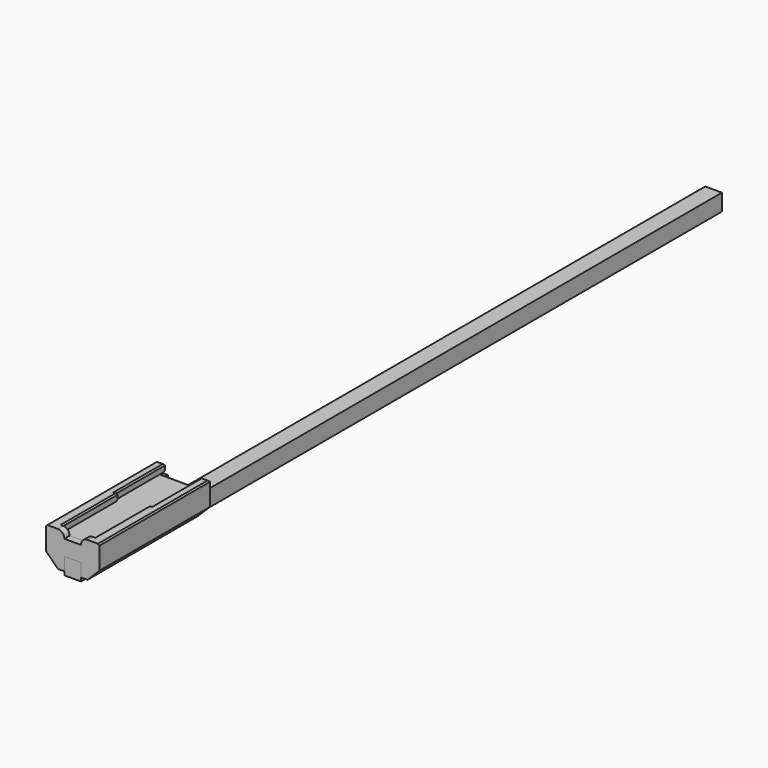
from build123d import *

# Parameters (mm, degrees)
BOX_W             = 12.7
BOX_H             = 609.6
BOX_DEPTH         = 12.7
BOX001_W          = 30.48
BOX001_H          = 95.25
BOX001_DEPTH      = 1.6
CYLINDER002_R     = 7
CYLINDER002_DEPTH = 3
CYLINDER003_R     = 7
CYLINDER003_DEPTH = 3
CYLINDER001_R     = 2
CYLINDER001_DEPTH = 10
CYLINDER_R        = 2
CYLINDER_DEPTH    = 10
SKETCH_W          = 40.48
SKETCH_H          = 105.25
EXTRUDE_DEPTH     = 5
SKETCH001_W       = 13.89
SKETCH001_H       = 105.25
EXTRUDE001_DEPTH  = 10
CHAMFER_SIZE      = 9
EXTRUDE002_DEPTH  = 5
EXTRUDE003_DEPTH  = 1.8
EXTRUDE004_DEPTH  = 5
CHAMFER001_SIZE   = 1
FILLET_R          = 4.9
CHAMFER002_SIZE   = 1
CHAMFER003_SIZE   = 1


with BuildPart() as dowel:
    # Box → Box (new body)
    with BuildSketch(Plane.XY):
        with Locations((6.35, 304.8)):
            Rectangle(BOX_W, BOX_H)
    extrude(amount=BOX_DEPTH)


with BuildPart() as pcb:
    # Box001 → Box001 (new body)
    with BuildSketch(Plane(origin=(-8.89, 5, 22.72), x_dir=(1, 0, 0), z_dir=(0, 0, 1))):
        with Locations((15.24, 47.625)):
            Rectangle(BOX001_W, BOX001_H)
    extrude(amount=BOX001_DEPTH)


with BuildPart() as countersink1:
    # Cylinder002 → Cylinder002 (new body)
    with BuildSketch(Plane(origin=(6.35, 30, 15), x_dir=(1, 0, 0), z_dir=(0, 0, 1))):
        Circle(CYLINDER002_R)
    extrude(amount=CYLINDER002_DEPTH)


with BuildPart() as countersink002:
    # Cylinder003 → Cylinder003 (new body)
    with BuildSketch(Plane(origin=(6.35, 70, 15), x_dir=(1, 0, 0), z_dir=(0, 0, 1))):
        Circle(CYLINDER003_R)
    extrude(amount=CYLINDER003_DEPTH)


with BuildPart() as screwhole2:
    # Cylinder001 → Cylinder001 (new body)
    with BuildSketch(Plane(origin=(6.35, 70, 10), x_dir=(1, 0, 0), z_dir=(0, 0, 1))):
        Circle(CYLINDER001_R)
    extrude(amount=CYLINDER001_DEPTH)


with BuildPart() as screwhole1:
    # Cylinder → Cylinder (new body)
    with BuildSketch(Plane(origin=(6.35, 30, 10), x_dir=(1, 0, 0), z_dir=(0, 0, 1))):
        Circle(CYLINDER_R)
    extrude(amount=CYLINDER_DEPTH)


with BuildPart() as baseplate:
    # Sketch → Extrude (new body)
    with BuildSketch(Plane.XY):
        with Locations((0, 52.625)):
            Rectangle(SKETCH_W, SKETCH_H)
    extrude(amount=EXTRUDE_DEPTH)


with BuildPart() as baseplate_1:
    # Extrude placement: moved
    add(baseplate.part.moved(Location((6.35, 0, 12.7))))

    # Cut: cut screwhole1
    add(screwhole1.part, mode=Mode.SUBTRACT)

    # Cut001: cut screwhole2
    add(screwhole2.part, mode=Mode.SUBTRACT)

    # Cut002: cut countersink002
    add(countersink002.part, mode=Mode.SUBTRACT)

    # Cut003: cut countersink1
    add(countersink1.part, mode=Mode.SUBTRACT)


with BuildPart() as supportarms:
    # Sketch001 (on Extrude) → Extrude001 (new body)
    with BuildSketch(Plane(origin=(6.35, 0, 12.7), x_dir=(1, 0, 0), z_dir=(0, 0, 1))):
        with Locations((-13.295, 52.625)):
            Rectangle(SKETCH001_W, SKETCH001_H)
        with Locations((13.295, 52.625)):
            Rectangle(SKETCH001_W, SKETCH001_H)
    extrude(amount=-EXTRUDE001_DEPTH)

    # Chamfer
    chamfer_edges = [supportarms.edges().sort_by_distance(p)[0] for p in [
        (26.59, 52.625, 2.7),
        (-13.89, 52.625, 2.7),
    ]]
    chamfer(chamfer_edges, length=CHAMFER_SIZE)


with BuildPart() as obj1:
    # Sketch002 (on Face5 of Cut003) → Extrude002 (new body)
    with BuildSketch(Plane.XY.offset(17.7)):
        Polygon((-13.89, 0), (-8.89, 0), (21.59, 0), (26.59, 0), (26.59, 105.25), (18.09, 105.25), (18.09, 7), (-5.39, 7), (-5.39, 105.25), (-13.89, 105.25), align=None)
    extrude(amount=EXTRUDE002_DEPTH)


with BuildPart() as obj2:
    # Sketch003 (on Face12 of Extrude002) → Extrude003 (new body)
    with BuildSketch(Plane.XY.offset(22.7)):
        Polygon((-13.89, 0), (26.59, 0), (26.59, 5), (26.59, 105.25), (21.59, 105.25), (21.59, 5), (-8.89, 5), (-8.89, 105.25), (-13.89, 105.25), (-13.89, 5), align=None)
    extrude(amount=EXTRUDE003_DEPTH)


with BuildPart() as fusion001:
    # Sketch004 (on Face12 of Extrude003) → Extrude004 (new body)
    with BuildSketch(Plane.XY.offset(24.5)):
        Polygon((-7.49, 105.25), (-13.89, 105.25), (-13.89, 0), (0, 0), (0, 5), (-5.89, 5), (-5.89, 58), (-7.49, 58), align=None)
        Polygon((26.59, 0), (26.59, 105.25), (20.19, 105.25), (20.19, 58), (18.59, 58), (18.59, 5), (12.7, 5), (12.7, 0), (18.59, 0), align=None)
    extrude(amount=EXTRUDE004_DEPTH)

    # Fusion: union obj1, obj2
    add(obj1.part)
    add(obj2.part)

    # Chamfer001
    chamfer001_edges = [fusion001.edges().sort_by_distance(p)[0] for p in [
        (-10.69, 105.25, 29.5),
        (-13.89, 52.625, 29.5),
        (-7.49, 81.625, 29.5),
        (-5.89, 31.5, 29.5),
        (-6.69, 58, 29.5),
        (26.59, 52.625, 29.5),
        (23.39, 105.25, 29.5),
        (18.59, 31.5, 29.5),
        (19.39, 58, 29.5),
        (20.19, 81.625, 29.5),
    ]]
    chamfer(chamfer001_edges, length=CHAMFER001_SIZE)

    # Fillet
    fillet_edges = [fusion001.edges().sort_by_distance(p)[0] for p in [
        (0, 2.5, 29.5),
        (12.7, 2.5, 29.5),
    ]]
    fillet(fillet_edges, radius=FILLET_R)

    # Chamfer002
    chamfer002_edges = [fusion001.edges().sort_by_distance(p)[0] for p in [
        (-8.19, 105.25, 24.5),
        (-6.69, 58, 24.5),
    ]]
    chamfer(chamfer002_edges, length=CHAMFER002_SIZE)

    # Chamfer003
    chamfer003_edges = [fusion001.edges().sort_by_distance(p)[0] for p in [
        (19.39, 58, 24.5),
        (20.89, 105.25, 24.5),
    ]]
    chamfer(chamfer003_edges, length=CHAMFER003_SIZE)

    # Fusion001: union Baseplate, SupportArms
    add(baseplate_1.part)
    add(supportarms.part)


solid = Compound([dowel.part, pcb.part, fusion001.part])
